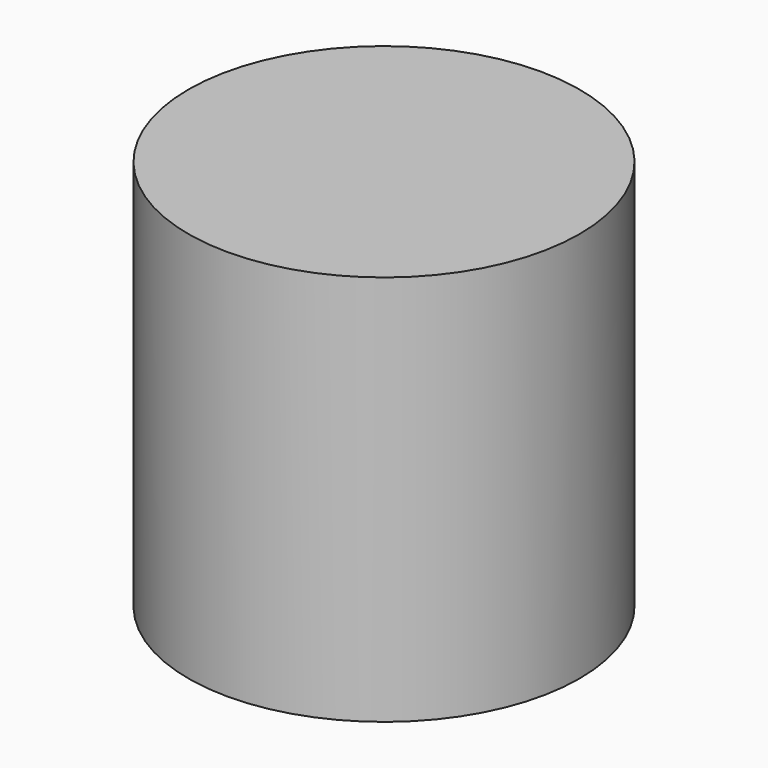
from build123d import *

# Parameters (mm, degrees)
CYLINDER_R     = 8
CYLINDER_DEPTH = 16


with BuildPart() as part:
    # Cylinder → Cylinder (new body)
    with BuildSketch(Plane.XY):
        Circle(CYLINDER_R)
    extrude(amount=CYLINDER_DEPTH)


solid = part.part
